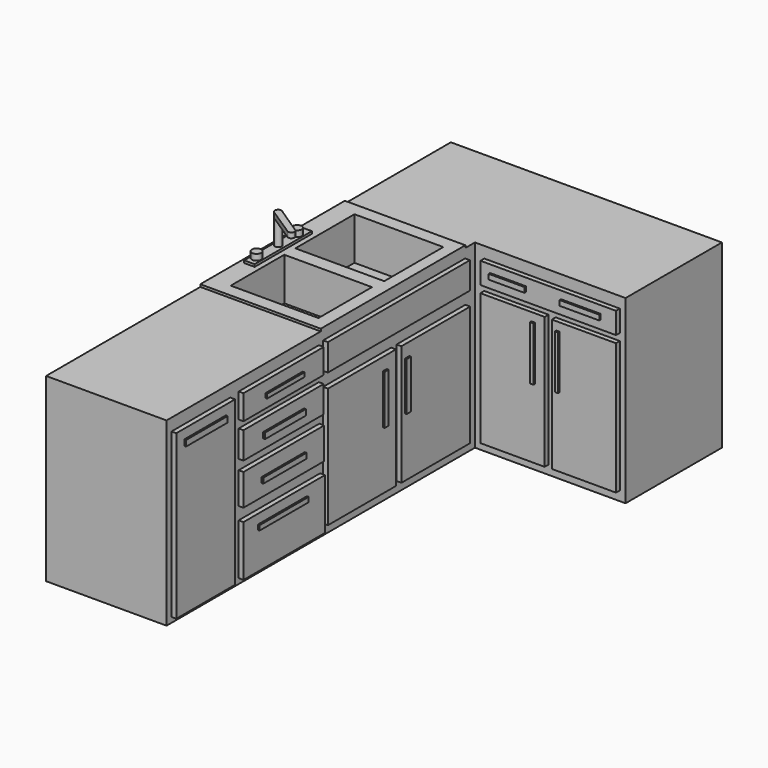
from build123d import *

# Parameters (mm, degrees)
F1_DEPTH  = 914.4
F2_W      = 609.6
F2_H      = 914.4
F3_DEPTH  = 12.192
F4_W      = 449.7101977468
F4_H      = 373.7850785255
F4_W_2    = 443.8698366284
F4_H_2    = 338.7427330017
F5_DEPTH  = 216.408
F6_W      = 52.5635313243
F6_H      = 362.1043562889
F7_DEPTH  = 12.192
F8_R      = 23.0861933735
F8_R_2    = 23.5885121879
F9_DEPTH  = 30.48
F10_R     = 16.9333495062
F11_DEPTH = 149.352
F13_DEPTH = 26.2128
F14_W     = 897.9855179787
F14_H     = 135.4948282242
F14_W_2   = 430.3954839706
F14_H_2   = 608.3984486759
F14_W_3   = 434.6766495132
F14_W_4   = 507.4415206909
F14_H_3   = 124.8677968979
F14_W_5   = 510.0982189178
F14_H_4   = 159.405708313
F14_W_6   = 515.4118537903
F14_H_5   = 257.705911994
F14_W_7   = 371.946811676
F14_H_6   = 826.2529522181
F15_DEPTH = 24.384
F16_W     = 263.0195617676
F16_H     = 29.2243361473
F16_W_2   = 236.4517450333
F16_H_2   = 21.2540626526
F16_W_3   = 257.7059268951
F16_H_3   = 29.224395752
F16_W_4   = 273.6464738846
F16_H_4   = 26.5676081181
F16_W_5   = 310.8410835266
F16_H_5   = 23.9108502865
F16_W_6   = 23.9108800888
F16_H_6   = 249.7356235981
F16_W_7   = 29.224395752
F16_H_7   = 244.4220781326
F17_DEPTH = 33.528
F18_W     = 686.0738992691
F18_H     = 108.3274483681
F18_W_2   = 324.9823451042
F18_H_2   = 668.0193580687
F18_W_3   = 324.9824047089
F18_H_3   = 665.4401309788
F19_DEPTH = 24.384
F20_W     = 180.5458068848
F20_H     = 25.7922410965
F20_W_2   = 201.1796236038
F20_W_3   = 18.0545449257
F20_H_2   = 273.3978629112
F20_W_4   = 15.4753923416
F20_H_3   = 270.8186507225
F21_DEPTH = 33.528


with BuildPart() as f1:
    # F0 (on Top) → F1 (new body)
    with BuildSketch(Plane.XY):
        Polygon((1371.6, 0), (0, 0), (0, -2560.32), (609.6, -2560.32), (609.6, -609.6), (1371.6, -609.6), align=None)
    extrude(amount=F1_DEPTH)

    # F2 (on face) → F3 (join)
    with BuildSketch(Plane.XY.offset(914.4)):
        with Locations((304.8, -1127.76)):
            Rectangle(F2_W, F2_H)
    extrude(amount=F3_DEPTH)

    # F4 (on face) → F5 (cut)
    with BuildSketch(Plane.XY.offset(926.592)):
        with Locations((326.4784477651, -923.7917363644)):
            Rectangle(F4_W, F4_H)
        with Locations((323.558267206, -1350.1404523849)):
            Rectangle(F4_W_2, F4_H_2)
    extrude(amount=-F5_DEPTH, mode=Mode.SUBTRACT)

    # F6 (on face) → F7 (join)
    with BuildSketch(Plane.XY.offset(926.592)):
        with Locations((49.0598166361, -1154.4872820377)):
            Rectangle(F6_W, F6_H)
    extrude(amount=F7_DEPTH)

    # F8 (on face) → F9 (join)
    with BuildSketch(Plane.XY.offset(938.784)):
        with Locations((48.3345501125, -1032.1618318558)):
            Circle(F8_R)
        with Locations((48.3345501125, -1289.1390323639)):
            Circle(F8_R_2)
    extrude(amount=F9_DEPTH)

    # F10 (on face) → F11 (join)
    with BuildSketch(Plane.XY.offset(938.784)):
        with Locations((46.4938916266, -1150.2358913422)):
            Circle(F10_R)
    extrude(amount=F11_DEPTH)

    # F12 (on face) → F13 (join)
    with BuildSketch(Plane.XY.offset(1088.136)):
        with BuildLine():
            ThreePointArc((179.7659053915, -1257.725767202), (175.1870617422, -1235.5880011729), (197.3383816738, -1231.0751839585))
            Line((197.3383816738, -1231.0751839585), (59.8566564425, -1139.8351778101))
            ThreePointArc((59.8566564425, -1139.8351778101), (62.5097383494, -1144.737620773), (63.4272411328, -1150.2358913422))
            ThreePointArc((63.4272411328, -1150.2358913422), (55.1088743441, -1164.8139707176), (38.3264306642, -1165.0693301521))
            Line((38.3264306642, -1165.0693301521), (179.7659053915, -1257.725767202))
        make_face()
        with BuildLine():
            ThreePointArc((179.7659053915, -1257.725767202), (196.100490997, -1258.4165256424), (204.473729656, -1244.374278369))
            ThreePointArc((204.473729656, -1244.374278369), (202.577222106, -1236.8281021359), (197.3383816738, -1231.0751839585))
            ThreePointArc((197.3383816738, -1231.0751839585), (175.1870617422, -1235.5880011729), (179.7659053915, -1257.725767202))
        make_face()
    extrude(amount=-F13_DEPTH)

    # F14 (on face) → F15 (join)
    with BuildSketch(Plane.YZ.offset(609.6)):
        with Locations((-1121.1772859097, 800.8534312248)):
            Rectangle(F14_W, F14_H)
        with Locations((-1354.9723029137, 357.174212113)):
            Rectangle(F14_W_2, F14_H_2)
        with Locations((-887.8983247566, 357.174212113)):
            Rectangle(F14_W_3, F14_H_2)
        with Locations((-1850.4583835602, 795.5399155617)):
            Rectangle(F14_W_4, F14_H_3)
        with Locations((-1850.4583835602, 625.5071759224)):
            Rectangle(F14_W_4, F14_H)
        with Locations((-1849.1300344467, 427.5783896446)):
            Rectangle(F14_W_5, F14_H_4)
        with Locations((-1846.4732170105, 155.2603021264)):
            Rectangle(F14_W_6, F14_H_5)
        with Locations((-2343.2877063751, 439.5338222384)):
            Rectangle(F14_W_7, F14_H_6)
    extrude(amount=F15_DEPTH)

    # F16 (on face) → F17 (join)
    with BuildSketch(Plane.YZ.offset(609.6)):
        with Locations((-2347.2728729248, 790.2264297009)):
            Rectangle(F16_W, F16_H)
        with Locations((-1847.8016257286, 791.5548086166)):
            Rectangle(F16_W_2, F16_H_2)
        with Locations((-1850.4583835602, 620.1936602592)):
            Rectangle(F16_W_3, F16_H_3)
        with Locations((-1853.1151413918, 424.9216765165)):
            Rectangle(F16_W_4, F16_H_4)
        with Locations((-1858.4287166595, 224.3361473083)):
            Rectangle(F16_W_5, F16_H_5)
        with Locations((-1210.1787924767, 472.7433770895)):
            Rectangle(F16_W_6, F16_H_6)
        with Locations((-1069.3703889847, 475.4001498222)):
            Rectangle(F16_W_7, F16_H_7)
    extrude(amount=F17_DEPTH)

    # F18 (on face) → F19 (join)
    with BuildSketch(Plane.XZ.offset(609.6)):
        with Locations((999.7642636299, 803.8538396358)):
            Rectangle(F18_W, F18_H)
        with Locations((819.2184865475, 379.5712869614)):
            Rectangle(F18_W_2, F18_H_2)
        with Locations((1180.31001091, 380.8609005064)):
            Rectangle(F18_W_3, F18_H_3)
    extrude(amount=F19_DEPTH)

    # F20 (on face) → F21 (join)
    with BuildSketch(Plane.XZ.offset(609.6)):
        with Locations((796.005487442, 806.4330220222)):
            Rectangle(F20_W, F20_H)
        with Locations((1164.8346781731, 806.4330220222)):
            Rectangle(F20_W_2, F20_H)
        with Locations((923.6771166325, 535.6144011021)):
            Rectangle(F20_W_3, F20_H_2)
        with Locations((1048.7695336342, 536.9040071964)):
            Rectangle(F20_W_4, F20_H_3)
    extrude(amount=F21_DEPTH)


solid = f1.part
